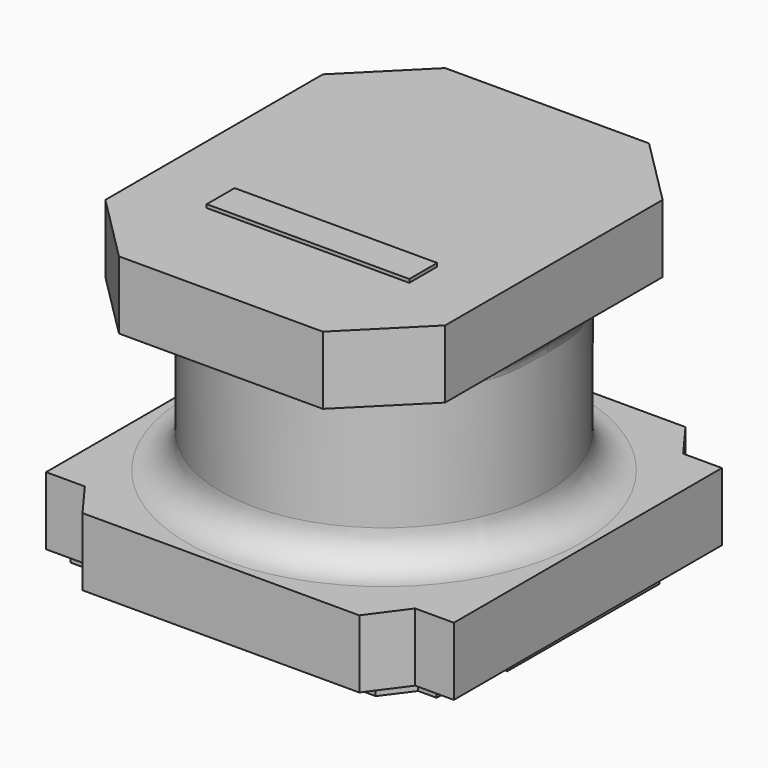
from build123d import *

# Parameters (mm, degrees)
SKETCH_W     = 6
SKETCH_H     = 6
PAD_DEPTH    = 1
POCKET_DEPTH = 1
SKETCH002_R  = 2.4
PAD001_DEPTH = 2.5
FILLET_R     = 0.5
SKETCH003_W  = 5
SKETCH003_H  = 6
PAD002_DEPTH = 1
CHAMFER_SIZE = 1
FILLET001_R  = 0.25
PAD003_DEPTH = 0.1
SKETCH005_W  = 2.980372
SKETCH005_H  = 0.513015
PAD004_DEPTH = 0.05


with BuildPart() as part:
    # Sketch → Pad (new body)
    with BuildSketch(Plane.XY):
        Rectangle(SKETCH_W, SKETCH_H)
    extrude(amount=PAD_DEPTH)

    # Sketch001 (on Face6 of Pad) → Pocket (cut)
    with BuildSketch(Plane.XY.offset(1)):
        Polygon((-3, 3), (-3, 2.465282), (-2.429642, 2.465282), (-2.036143, 3), align=None)
        Polygon((3, 3), (3, 2.465282), (2.429642, 2.465282), (2.036143, 3), align=None)
        Polygon((-3, -3), (-3, -2.465282), (-2.429642, -2.465282), (-2.036143, -3), align=None)
        Polygon((3, -3), (3, -2.465282), (2.429642, -2.465282), (2.036143, -3), align=None)
    extrude(amount=-POCKET_DEPTH, mode=Mode.SUBTRACT)

    # Sketch002 (on Face4 of Pocket) → Pad001 (join)
    with BuildSketch(Plane.XY.offset(1)):
        Circle(SKETCH002_R)
    extrude(amount=PAD001_DEPTH)

    # Fillet
    fillet_edges = [part.edges().sort_by_distance(p)[0] for p in [
        (-2.4, 0, 1),
    ]]
    fillet(fillet_edges, radius=FILLET_R)

    # Sketch003 (on Face17 of Fillet) → Pad002 (join)
    with BuildSketch(Plane.XY.offset(3.5)):
        Rectangle(SKETCH003_W, SKETCH003_H)
    extrude(amount=PAD002_DEPTH)

    # Chamfer
    chamfer_edges = [part.edges().sort_by_distance(p)[0] for p in [
        (-2.5, -3, 4),
        (2.5, -3, 4),
        (-2.5, 3, 4),
        (2.5, 3, 4),
    ]]
    chamfer(chamfer_edges, length=CHAMFER_SIZE)

    # Fillet001
    fillet001_edges = [part.edges().sort_by_distance(p)[0] for p in [
        (-2.4, 0, 3.5),
    ]]
    fillet(fillet001_edges, radius=FILLET001_R)

    # Sketch004 (on Face32 of Fillet001) → Pad003 (join)
    with BuildSketch(Plane(origin=(0, 0, 0), x_dir=(1, 0, 0), z_dir=(0, 0, -1))):
        Polygon((-2.914238, 1.375165), (-2.921686, -1.414024), (-2.649441, -1.406666), (-2.656799, -2.39999), (-2.369838, -2.407348), (-2.178532, -2.701667), (-1.928361, -2.694309), (-1.928272, 2.80261), (-2.119579, 2.80261), (-2.421255, 2.397922), (-2.6935, 2.397922), (-2.6935, 1.367807), align=None)
    pad003 = extrude(amount=PAD003_DEPTH)

    # Mirrored: Pad003 across YZ
    add(pad003.mirror(Plane.YZ))

    # Sketch005 (on Face10 of Mirrored) → Pad004 (join)
    with BuildSketch(Plane.XY.offset(4.5)):
        with Locations((0.026899, -1.174543)):
            Rectangle(SKETCH005_W, SKETCH005_H)
    extrude(amount=PAD004_DEPTH)


solid = part.part
